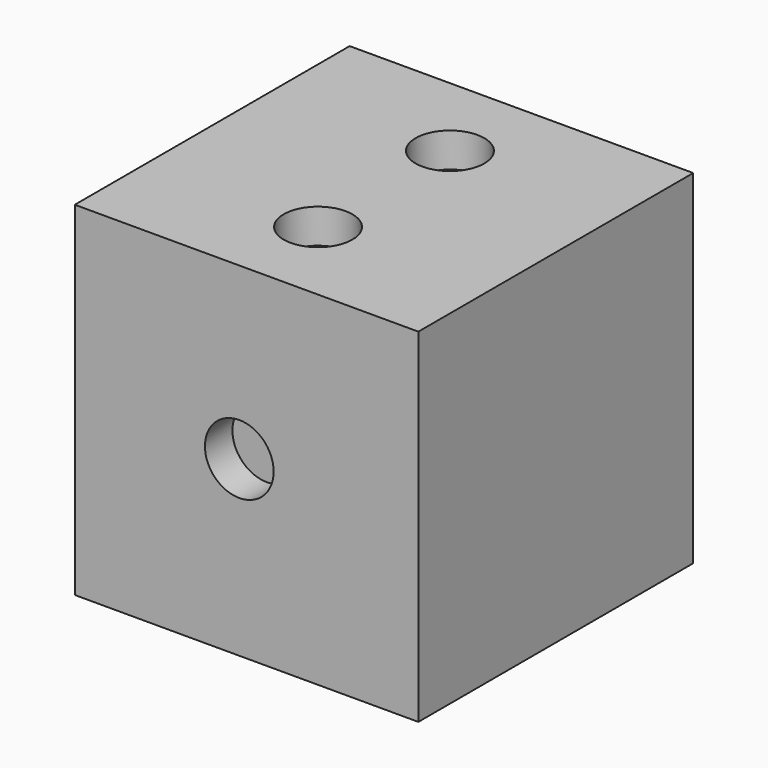
from build123d import *

# Parameters (mm, degrees)
F0_W      = 50
F0_H      = 50
F2_W      = 50
F2_H      = 50
F4_R      = 5
F5_DEPTH  = 5
F6_R      = 5
F7_DEPTH  = 5
F9_R      = 5
F10_DEPTH = 5
F11_R     = 5
F12_DEPTH = 5


with BuildPart() as f3:
    # F0 (on Front) → F3 section 0
    with BuildSketch(Plane.XZ):
        with Locations((-25, 25)):
            Rectangle(F0_W, F0_H)
    # F2 (on offset) → F3 section 1
    with BuildSketch(Plane.XZ.offset(50)):
        with Locations((-25, 25)):
            Rectangle(F2_W, F2_H)
    loft()

    # F4 (on face) → F5 (cut)
    with BuildSketch(Plane.XZ.offset(50)):
        with Locations((-26.061153, 25.211331)):
            Circle(F4_R)
    extrude(amount=-F5_DEPTH, mode=Mode.SUBTRACT)

    # F6 (on face) → F7 (cut)
    with BuildSketch(Plane(origin=(0, 0, 0), x_dir=(1, 0, 0), z_dir=(0, 0, -1))):
        with Locations((-25, 25)):
            Circle(F6_R)
        with Locations((-37, 37)):
            Circle(F6_R)
        with Locations((-13, 37)):
            Circle(F6_R)
        with Locations((-13, 13)):
            Circle(F6_R)
        with Locations((-37, 13)):
            Circle(F6_R)
    extrude(amount=-F7_DEPTH, mode=Mode.SUBTRACT)

    # F9 (on face) → F10 (cut)
    with BuildSketch(Plane(origin=(0, 0, 0), x_dir=(-1, 0, 0), z_dir=(0, 1, 0))):
        with Locations((15.027642, 38.336441)):
            Circle(F9_R)
        with Locations((14.789439, 24.997041)):
            Circle(F9_R)
        with Locations((14.789439, 11.895845)):
            Circle(F9_R)
        with Locations((35.513151, 38.336441)):
            Circle(F9_R)
        with Locations((34.798544, 25.235245)):
            Circle(F9_R)
        with Locations((34.798544, 12.134047)):
            Circle(F9_R)
    extrude(amount=-F10_DEPTH, mode=Mode.SUBTRACT)

    # F11 (on face) → F12 (cut)
    with BuildSketch(Plane.XY.offset(50)):
        with Locations((-25, -37)):
            Circle(F11_R)
        with Locations((-25, -13)):
            Circle(F11_R)
    extrude(amount=-F12_DEPTH, mode=Mode.SUBTRACT)


solid = f3.part
